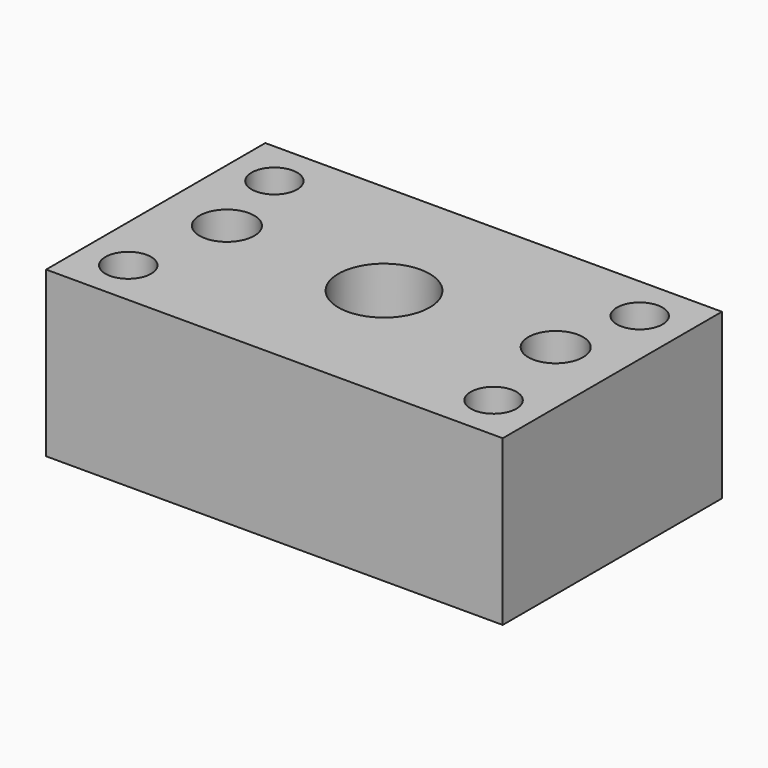
from build123d import *

# Parameters (mm, degrees)
F0_W     = 50
F0_H     = 30
F0_R     = 2.5
F0_R_2   = 5
F0_R_3   = 3
F1_DEPTH = 18
F2_DEPTH = 5


with BuildPart() as f1:
    # F0 (on Top) → F1 (new body)
    with BuildSketch(Plane.XY):
        with Locations((25, -15)):
            Rectangle(F0_W, F0_H)
        with Locations((5, -25)):
            Circle(F0_R, mode=Mode.SUBTRACT)
        with Locations((45, -25)):
            Circle(F0_R, mode=Mode.SUBTRACT)
        with Locations((7, -14)):
            Circle(F0_R_2, mode=Mode.SUBTRACT)
        with Locations((5, -5)):
            Circle(F0_R, mode=Mode.SUBTRACT)
        with Locations((25, -15)):
            Circle(F0_R_2, mode=Mode.SUBTRACT)
        with Locations((43, -14)):
            Circle(F0_R_2, mode=Mode.SUBTRACT)
        with Locations((45, -5)):
            Circle(F0_R, mode=Mode.SUBTRACT)
        with Locations((7, -14)):
            Circle(F0_R_2)
        with Locations((7, -14)):
            Circle(F0_R_3, mode=Mode.SUBTRACT)
        with Locations((43, -14)):
            Circle(F0_R_2)
        with Locations((43, -14)):
            Circle(F0_R_3, mode=Mode.SUBTRACT)
    extrude(amount=F1_DEPTH)

    # F0 (on Top) → F2 (cut)
    with BuildSketch(Plane.XY):
        with Locations((7, -14)):
            Circle(F0_R_2)
        with Locations((7, -14)):
            Circle(F0_R_3, mode=Mode.SUBTRACT)
        with Locations((43, -14)):
            Circle(F0_R_2)
        with Locations((43, -14)):
            Circle(F0_R_3, mode=Mode.SUBTRACT)
    extrude(amount=F2_DEPTH, mode=Mode.SUBTRACT)


solid = f1.part
